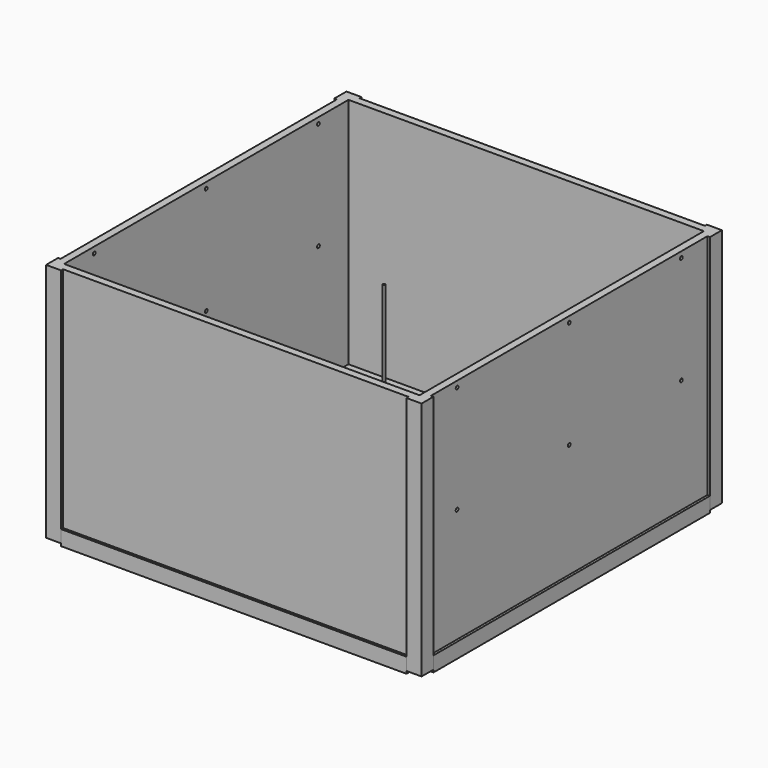
from build123d import *

# Parameters (mm, degrees)
F0_W     = 450.85
F0_H     = 450.85
F1_DEPTH = 304.8
F2_DEPTH = 9.525
F4_D     = 4.318
F4_DEPTH = 762
F4_TIP   = 1.2972580765
F6_DEPTH = 438.15
F7_R     = 1.5875
F8_DEPTH = 254
F9_COUNT = 4


with BuildPart() as f1:
    # F0 (on Top) → F1 (new body)
    with BuildSketch(Plane.XY):
        Polygon((234.95, -219.075), (234.95, -234.95), (219.075, -234.95), (219.075, -238.125), (234.95, -238.125), (238.125, -238.125), (238.125, -219.075), align=None)
        Polygon((219.075, -234.95), (234.95, -234.95), (234.95, -219.075), (234.95, 219.075), (234.95, 234.95), (219.075, 234.95), (-219.075, 234.95), (-234.95, 234.95), (-234.95, 219.075), (-234.95, -219.075), (-234.95, -234.95), (-219.075, -234.95), align=None)
        Rectangle(F0_W, F0_H, mode=Mode.SUBTRACT)
        Polygon((-219.075, -238.125), (-219.075, -234.95), (-234.95, -234.95), (-234.95, -219.075), (-238.125, -219.075), (-238.125, -234.95), (-238.125, -238.125), align=None)
        Polygon((234.95, 234.95), (234.95, 219.075), (238.125, 219.075), (238.125, 234.95), (238.125, 238.125), (219.075, 238.125), (219.075, 234.95), align=None)
        Polygon((-238.125, 219.075), (-234.95, 219.075), (-234.95, 234.95), (-219.075, 234.95), (-219.075, 238.125), (-234.95, 238.125), (-238.125, 238.125), align=None)
    extrude(amount=F1_DEPTH)

    # F0 (on Top) → F2 (join)
    with BuildSketch(Plane.XY):
        Rectangle(F0_W, F0_H)
    extrude(amount=F2_DEPTH)

    # F4
    with Locations(Plane(origin=(-234.95, 0, 0), x_dir=(0, -1, 0), z_dir=(-1, 0, 0))):
        with Locations((-177.8, 297.18), (-177.8, 160.6677), (0, 297.18), (0, 160.6677), (177.8, 297.18), (177.8, 160.6677)):
            Hole(F4_D / 2, depth=F4_DEPTH)
            with Locations((0, 0, -(F4_DEPTH + F4_TIP / 2))):  # 118° drill point
                Cone(0, F4_D / 2, F4_TIP, mode=Mode.SUBTRACT)

    # F7 (on face) → F8 (join)
    with BuildSketch(Plane.XY.offset(9.525)):
        Circle(F7_R)
    extrude(amount=F8_DEPTH)


with BuildPart() as f6:
    # F5 (on face) → F6 (new body, through all)
    with BuildSketch(Plane.YZ.offset(-219.075)):
        Polygon((-238.125, 15.875), (-238.125, -3.175), (-219.075, -3.175), (-219.075, 0), (-234.95, 0), (-234.95, 15.875), align=None)
    extrude(amount=F6_DEPTH)


with BuildPart() as f9_1:
    # F9: instance of F6
    add(f6.part.rotate(Axis((0, 0, 9.525), (0, 0, -1)), 1 * 360 / F9_COUNT))


with BuildPart() as f9_2:
    # F9: instance of F6
    add(f6.part.rotate(Axis((0, 0, 9.525), (0, 0, -1)), 2 * 360 / F9_COUNT))


with BuildPart() as f9_3:
    # F9: instance of F6
    add(f6.part.rotate(Axis((0, 0, 9.525), (0, 0, -1)), 3 * 360 / F9_COUNT))


solid = Compound([f1.part, f6.part, f9_1.part, f9_2.part, f9_3.part])
